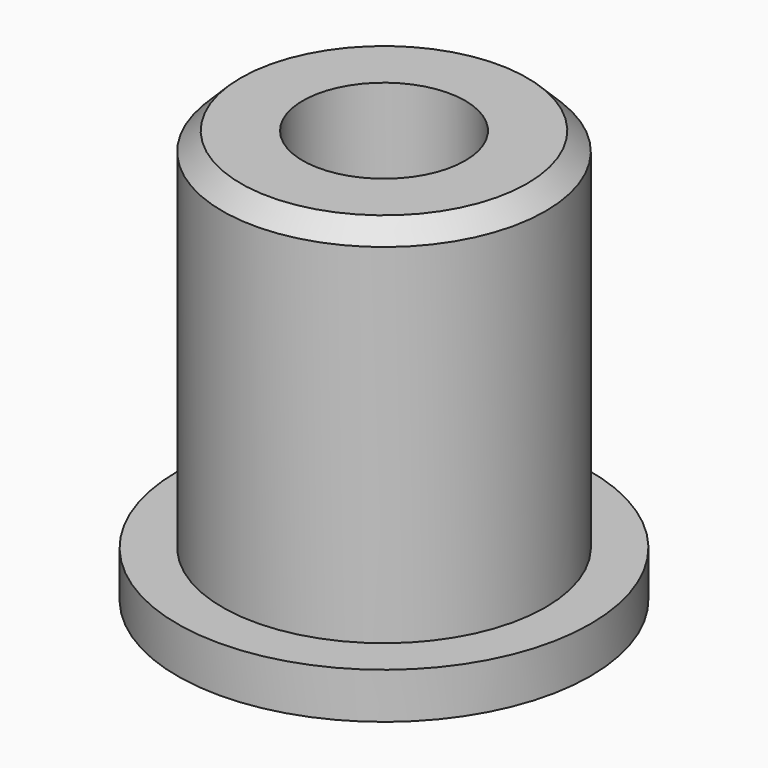
from build123d import *

# Parameters (mm, degrees)
F0_R     = 28.575
F1_DEPTH = 6.35
F2_R     = 22.352
F3_DEPTH = 50.8
F4_R     = 11.2395
F5_DEPTH = 57.151
F6_SIZE  = 2.54


with BuildPart() as f1:
    # F0 (on Top) → F1 (new body)
    with BuildSketch(Plane.XY):
        Circle(F0_R)
    extrude(amount=F1_DEPTH)

    # F2 (on face) → F3 (join)
    with BuildSketch(Plane.XY.offset(6.35)):
        Circle(F2_R)
    extrude(amount=F3_DEPTH)

    # F4 (on face) → F5 (cut, through all)
    with BuildSketch(Plane.XY.offset(57.15)):
        Circle(F4_R)
    extrude(amount=-F5_DEPTH, mode=Mode.SUBTRACT)

    # F6
    f6_edges = [f1.edges().sort_by_distance(p)[0] for p in [
        (-22.352, 0, 57.15),
    ]]
    chamfer(f6_edges, length=F6_SIZE)


solid = f1.part
